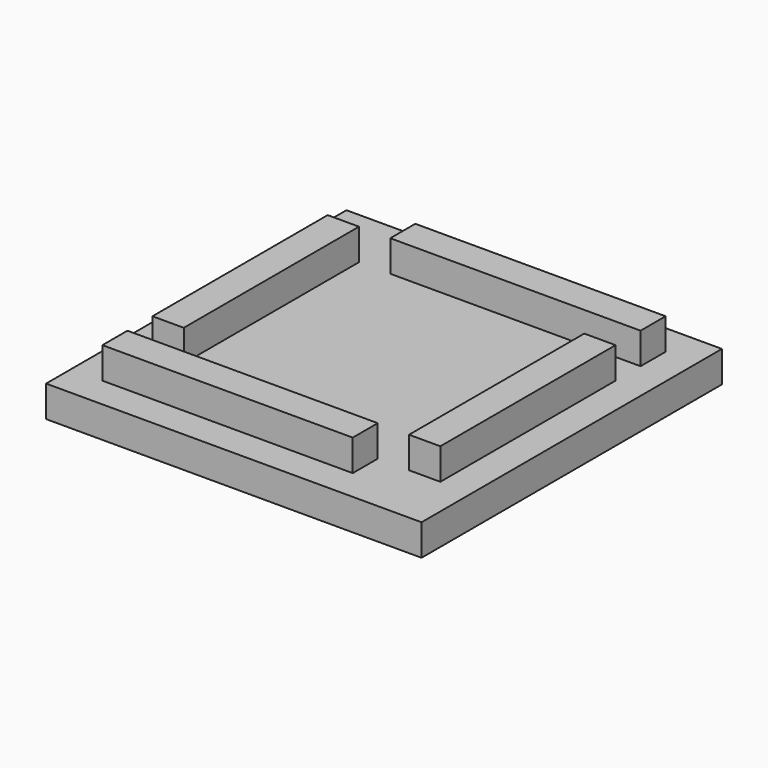
from build123d import *

# Parameters (mm, degrees)
F0_W     = 60
F0_H     = 60
F1_DEPTH = 5
F2_W     = 40
F2_H     = 5
F2_W_2   = 5
F2_H_2   = 35
F3_DEPTH = 5


with BuildPart() as f1:
    # F0 (on Top) → F1 (new body)
    with BuildSketch(Plane.XY):
        with Locations((30, 30)):
            Rectangle(F0_W, F0_H)
    extrude(amount=F1_DEPTH)

    # F2 (on face) → F3 (join)
    with BuildSketch(Plane.XY.offset(5)):
        with Locations((25, 7.5)):
            Rectangle(F2_W, F2_H)
        with Locations((7.5, 32.5)):
            Rectangle(F2_W_2, F2_H_2)
        with Locations((35, 52.5)):
            Rectangle(F2_W, F2_H)
        with Locations((52.5, 27.5)):
            Rectangle(F2_W_2, F2_H_2)
    extrude(amount=F3_DEPTH)


solid = f1.part
